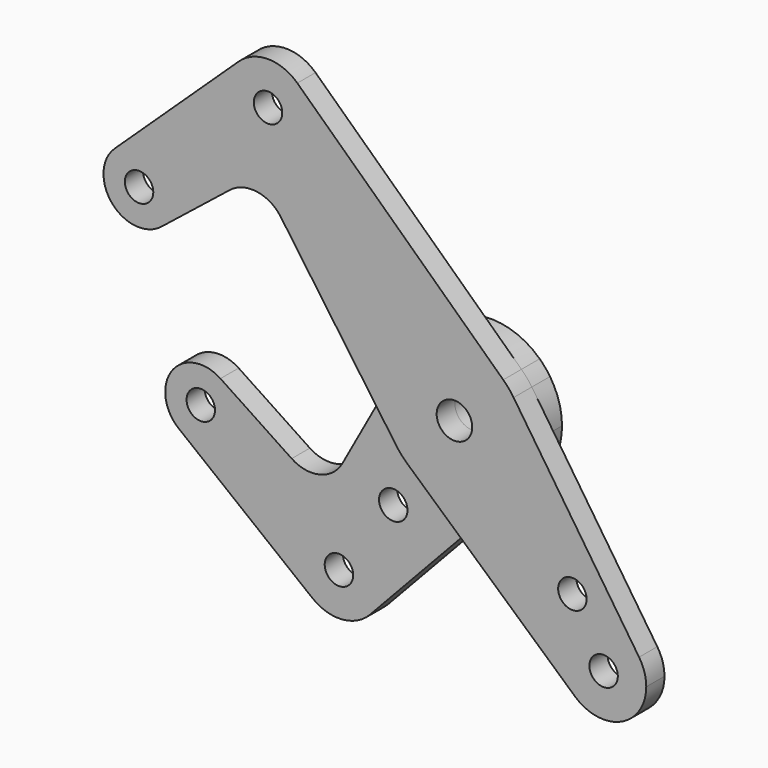
from build123d import *

# Parameters (mm, degrees)
F0_R     = 3.175
F0_R_2   = 3.96875
F1_DEPTH = 5.08
F2_DEPTH = 5.08


with BuildPart() as f1:
    # F0 (on Front) → F1 (new body)
    with BuildSketch(Plane.XZ):
        with BuildLine():
            ThreePointArc((-13.9120535072, 7.6465935038), (-2.4670732808, 15.682129142), (10.8922900307, 11.5487507067))
            Line((10.8922900307, 11.5487507067), (-35.0711574392, 54.8995176744))
            ThreePointArc((-35.0711574392, 54.8995176744), (-32.8608164346, 51.7436071154), (-32.0815314576, 47.9702672503))
            ThreePointArc((-32.0815314576, 47.9702672503), (-45.3798713227, 39.2245522274), (-48.1419054761, 54.8995176744))
            Line((-48.1419054761, 54.8995176744), (-75.8348368232, 28.7807237291))
            ThreePointArc((-75.8348368232, 28.7807237291), (-67.2442419203, 30.2944442282), (-62.4511918078, 23.0063483758))
            ThreePointArc((-62.4511918078, 23.0063483758), (-63.237943921, 19.5609585706), (-65.4422370763, 16.798571653))
            Line((-65.4422370763, 16.798571653), (-50.1509863937, 28.9828821829))
            ThreePointArc((-50.1509863937, 28.9828821829), (-44.0823996147, 30.6328866939), (-38.7182233604, 27.3502241323))
            Line((-38.7182233604, 27.3502241323), (-18.6894428937, -1.0452895859))
            Line((-18.6894428937, -1.0452895859), (-13.9120535072, 7.6465935038))
        make_face()
        with BuildLine():
            ThreePointArc((-62.4511918078, 23.0063483758), (-67.2442419203, 30.2944442282), (-75.8348368232, 28.7807237291))
            ThreePointArc((-75.8348368232, 28.7807237291), (-76.3849752141, 17.8055319436), (-65.4422370763, 16.798571653))
            ThreePointArc((-65.4422370763, 16.798571653), (-63.237943921, 19.5609585706), (-62.4511918078, 23.0063483758))
        make_face()
        with Locations((-70.3886918078, 23.0063483758)):
            Circle(F0_R, mode=Mode.SUBTRACT)
        with BuildLine():
            ThreePointArc((-32.0815314576, 47.9702672503), (-32.8608164346, 51.7436071154), (-35.0711574392, 54.8995176744))
            ThreePointArc((-35.0711574392, 54.8995176744), (-41.6065314576, 57.4952672503), (-48.1419054761, 54.8995176744))
            ThreePointArc((-48.1419054761, 54.8995176744), (-45.3798713227, 39.2245522274), (-32.0815314576, 47.9702672503))
        make_face()
        with Locations((-41.6065314576, 47.9702672503)):
            Circle(F0_R, mode=Mode.SUBTRACT)
        with BuildLine():
            ThreePointArc((15.875, 0), (15.1912005478, 4.609018433), (13.1987101208, 8.820979319))
            ThreePointArc((13.1987101208, 8.820979319), (12.1224690662, 10.2499448164), (10.8922900307, 11.5487507067))
            ThreePointArc((10.8922900307, 11.5487507067), (-2.4670732808, 15.682129142), (-13.9120535072, 7.6465935038))
            ThreePointArc((-13.9120535072, 7.6465935038), (-15.8502288115, -0.8864940066), (-12.9726166036, -9.1502373442))
            ThreePointArc((-12.9726166036, -9.1502373442), (-11.8607666217, -10.5516747555), (-10.5983019047, -11.8191210221))
            ThreePointArc((-10.5983019047, -11.8191210221), (0.6870299902, -15.8601265692), (11.5806470113, -10.8583718761))
            ThreePointArc((11.5806470113, -10.8583718761), (14.7624252124, -5.8383582323), (15.875, 0))
        make_face()
        Circle(F0_R_2, mode=Mode.SUBTRACT)
        with BuildLine():
            Line((-10.5983019047, -11.8191210221), (0.9609865297, -22.1844289332))
            Line((0.9609865297, -22.1844289332), (11.5806470113, -10.8583718761))
            ThreePointArc((11.5806470113, -10.8583718761), (0.6870299902, -15.8601265692), (-10.5983019047, -11.8191210221))
        make_face()
        with BuildLine():
            ThreePointArc((-12.9726166036, -9.1502373442), (-15.8502288115, -0.8864940066), (-13.9120535072, 7.6465935038))
            Line((-13.9120535072, 7.6465935038), (-18.6894428937, -1.0452895859))
            Line((-18.6894428937, -1.0452895859), (-12.9726166036, -9.1502373442))
        make_face()
        with BuildLine():
            ThreePointArc((26.9262440233, -45.4676864135), (27.0442454474, -31.1806737127), (41.2044512386, -33.0836262089))
            Line((41.2044512386, -33.0836262089), (13.1987101208, 8.820979319))
            ThreePointArc((13.1987101208, 8.820979319), (15.1912005478, 4.609018433), (15.875, 0))
            ThreePointArc((15.875, 0), (14.7624252124, -5.8383582323), (11.5806470113, -10.8583718761))
            Line((11.5806470113, -10.8583718761), (0.9609865297, -22.1844289332))
            Line((0.9609865297, -22.1844289332), (26.9262440233, -45.4676864135))
        make_face()
        with Locations((26.3222689506, -25.5025770961)):
            Circle(F0_R, mode=Mode.SUBTRACT)
        with BuildLine():
            ThreePointArc((26.9262440233, -45.4676864135), (37.1682864336, -47.0737686401), (42.8102251661, -38.3762138003))
            ThreePointArc((42.8102251661, -38.3762138003), (42.3999454948, -35.6108027404), (41.2044512386, -33.0836262089))
            ThreePointArc((41.2044512386, -33.0836262089), (27.0442454474, -31.1806737127), (26.9262440233, -45.4676864135))
        make_face()
        with Locations((33.2852251661, -38.3762138003)):
            Circle(F0_R, mode=Mode.SUBTRACT)
    extrude(amount=F1_DEPTH)


with BuildPart() as f2:
    # F0 (on Front) → F2 (new body)
    with BuildSketch(Plane.XZ):
        with BuildLine():
            ThreePointArc((15.875, 0), (15.1912005478, 4.609018433), (13.1987101208, 8.820979319))
            ThreePointArc((13.1987101208, 8.820979319), (12.1224690662, 10.2499448164), (10.8922900307, 11.5487507067))
            ThreePointArc((10.8922900307, 11.5487507067), (-2.4670732808, 15.682129142), (-13.9120535072, 7.6465935038))
            ThreePointArc((-13.9120535072, 7.6465935038), (-15.8502288115, -0.8864940066), (-12.9726166036, -9.1502373442))
            ThreePointArc((-12.9726166036, -9.1502373442), (-11.8607666217, -10.5516747555), (-10.5983019047, -11.8191210221))
            ThreePointArc((-10.5983019047, -11.8191210221), (0.6870299902, -15.8601265692), (11.5806470113, -10.8583718761))
            ThreePointArc((11.5806470113, -10.8583718761), (14.7624252124, -5.8383582323), (15.875, 0))
        make_face()
        Circle(F0_R_2, mode=Mode.SUBTRACT)
        with BuildLine():
            Line((-10.5983019047, -11.8191210221), (0.9609865297, -22.1844289332))
            Line((0.9609865297, -22.1844289332), (11.5806470113, -10.8583718761))
            ThreePointArc((11.5806470113, -10.8583718761), (0.6870299902, -15.8601265692), (-10.5983019047, -11.8191210221))
        make_face()
        with BuildLine():
            ThreePointArc((-12.9726166036, -9.1502373442), (-15.8502288115, -0.8864940066), (-13.9120535072, 7.6465935038))
            Line((-13.9120535072, 7.6465935038), (-18.6894428937, -1.0452895859))
            Line((-18.6894428937, -1.0452895859), (-12.9726166036, -9.1502373442))
        make_face()
        with BuildLine():
            Line((-22.8936149415, -47.6257862918), (0.9609865297, -22.1844289332))
            Line((0.9609865297, -22.1844289332), (-10.5983019047, -11.8191210221))
            ThreePointArc((-10.5983019047, -11.8191210221), (-11.8607666217, -10.5516747555), (-12.9726166036, -9.1502373442))
            Line((-12.9726166036, -9.1502373442), (-18.6894428937, -1.0452895859))
            Line((-18.6894428937, -1.0452895859), (-29.0432294857, -19.8827540071))
            ThreePointArc((-29.0432294857, -19.8827540071), (-34.1047181558, -23.7675459742), (-40.3903716946, -22.6717194482))
            Line((-40.3903716946, -22.6717194482), (-56.2839600676, -12.1169986119))
            ThreePointArc((-56.2839600676, -12.1169986119), (-53.6801350236, -14.97763267), (-52.7375755228, -18.7292608049))
            ThreePointArc((-52.7375755228, -18.7292608049), (-57.2181612785, -25.8744445084), (-65.6014873735, -24.9529552485))
            Line((-65.6014873735, -24.9529552485), (-35.753697369, -48.5791964985))
            ThreePointArc((-35.753697369, -48.5791964985), (-33.9903002415, -32.5365427219), (-20.3170031483, -41.1107631661))
            ThreePointArc((-20.3170031483, -41.1107631661), (-20.9845480208, -44.6137781054), (-22.8936149415, -47.6257862918))
        make_face()
        with Locations((-17.7186893693, -24.4095156299)):
            Circle(F0_R, mode=Mode.SUBTRACT)
        with BuildLine():
            ThreePointArc((-35.753697369, -48.5791964985), (-29.1377792061, -50.6096943501), (-22.8936149415, -47.6257862918))
            ThreePointArc((-22.8936149415, -47.6257862918), (-20.9845480208, -44.6137781054), (-20.3170031483, -41.1107631661))
            ThreePointArc((-20.3170031483, -41.1107631661), (-33.9903002415, -32.5365427219), (-35.753697369, -48.5791964985))
        make_face()
        with Locations((-29.8420031483, -41.1107631661)):
            Circle(F0_R, mode=Mode.SUBTRACT)
        with BuildLine():
            ThreePointArc((-56.2839600676, -12.1169986119), (-67.0986322675, -14.066447813), (-65.6014873735, -24.9529552485))
            ThreePointArc((-65.6014873735, -24.9529552485), (-57.2181612785, -25.8744445084), (-52.7375755228, -18.7292608049))
            ThreePointArc((-52.7375755228, -18.7292608049), (-53.6801350236, -14.97763267), (-56.2839600676, -12.1169986119))
        make_face()
        with Locations((-60.6750755228, -18.7292608049)):
            Circle(F0_R, mode=Mode.SUBTRACT)
    extrude(amount=-F2_DEPTH)


solid = Compound([f1.part, f2.part])
